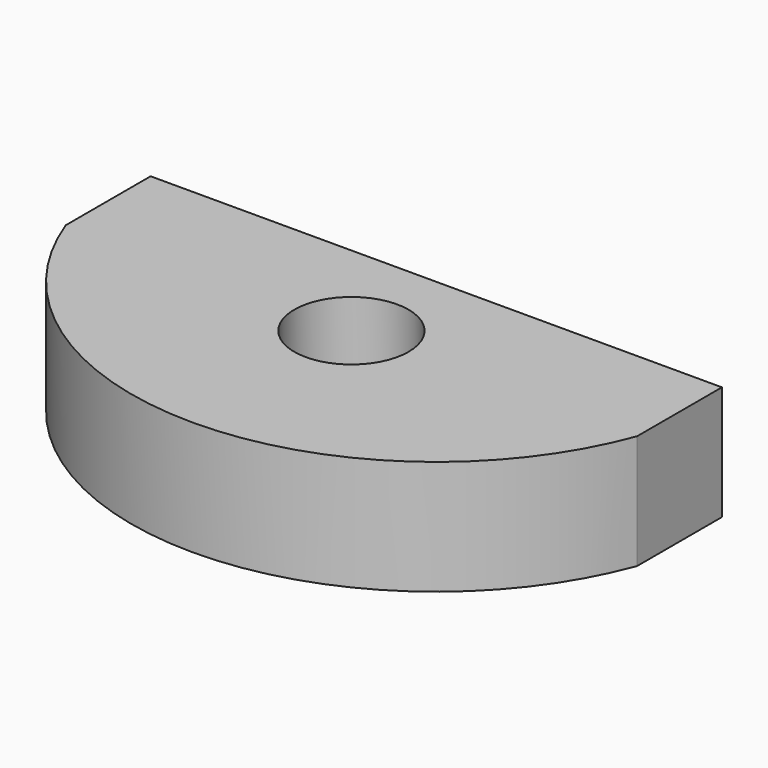
from build123d import *

# Parameters (mm, degrees)
F1_DEPTH = 3
F2_R     = 1.5
F3_DEPTH = 5


with BuildPart() as f1:
    # F0 (on Top) → F1 (new body)
    with BuildSketch(Plane.XY):
        with BuildLine():
            Line((-7.5, 0), (-7.5, -2.783882))
            ThreePointArc((-7.5, -2.783882), (0, -8), (7.5, -2.783882))
            Line((7.5, -2.783882), (7.5, 0))
            Line((7.5, 0), (-7.5, 0))
        make_face()
    extrude(amount=F1_DEPTH)

    # F2 (on face) → F3 (cut)
    with BuildSketch(Plane(origin=(0, 0, 0), x_dir=(1, 0, 0), z_dir=(0, 0, -1))):
        with Locations((0, 2.783882)):
            Circle(F2_R)
    extrude(amount=-F3_DEPTH, mode=Mode.SUBTRACT)


solid = f1.part
